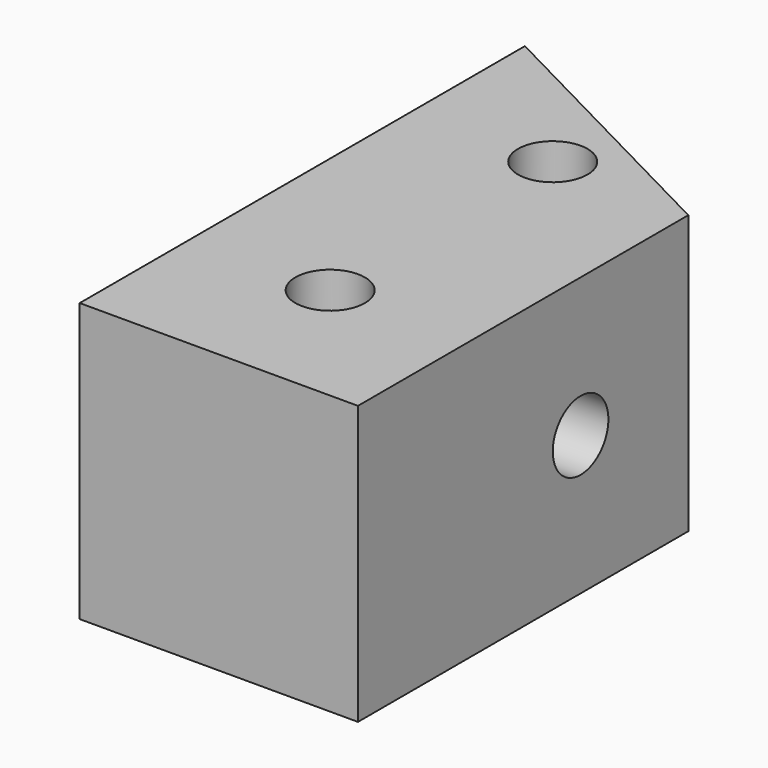
from build123d import *

# Parameters (mm, degrees)
F0_R     = 3.175
F1_DEPTH = 25.4
F2_R     = 3.175
F3_DEPTH = 25.4


with BuildPart() as f1:
    # F0 (on Top) → F1 (new body)
    with BuildSketch(Plane.XY):
        Polygon((12.7, 12.290854), (-12.7, 25.4), (-12.7, -25.4), (12.7, -25.4), align=None)
        with Locations((0, -12.7)):
            Circle(F0_R, mode=Mode.SUBTRACT)
        with Locations((0, 12.7)):
            Circle(F0_R, mode=Mode.SUBTRACT)
    extrude(amount=F1_DEPTH)

    # F2 (on face) → F3 (cut, through all)
    with BuildSketch(Plane(origin=(-12.7, 0, 0), x_dir=(0, -1, 0), z_dir=(-1, 0, 0))):
        with Locations((0, 12.7)):
            Circle(F2_R)
    extrude(amount=-F3_DEPTH, mode=Mode.SUBTRACT)


solid = f1.part
